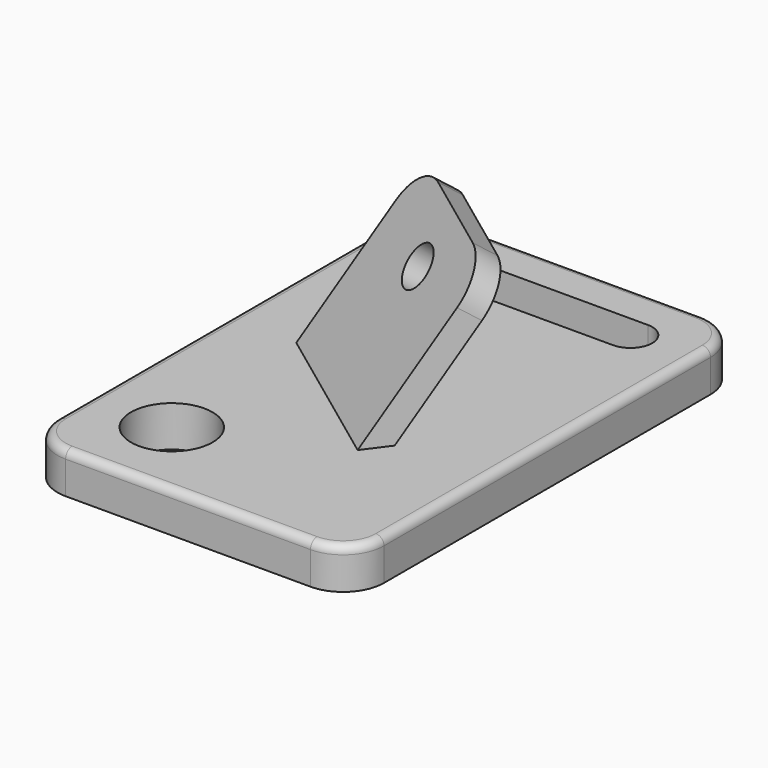
from build123d import *

# Parameters (mm, degrees)
F2_R     = 3.175
F3_DEPTH = 1.905
F0_R     = 6.35
F4_DEPTH = 3.175
F5_R     = 1.27


with BuildPart() as f3:
    # F2 (on face) → F3 (new body, symmetric)
    with BuildSketch(Plane(origin=(-3.023974, -4.077422, 3.55453), x_dir=(0.872864, -0.36782, 0.32065), z_dir=(-0.487963, -0.657953, 0.573576))):
        with BuildLine():
            Line((-3.872431, 23.373911), (-13.813271, 0))
            Line((-13.813271, 0), (13.066727, -11.431966))
            Line((13.066727, -11.431966), (23.007567, 11.941945))
            ThreePointArc((23.007567, 11.941945), (23.05336, 16.801809), (19.649299, 20.270633))
            Line((19.649299, 20.270633), (4.456257, 26.732178))
            ThreePointArc((4.456257, 26.732178), (-0.403607, 26.777972), (-3.872431, 23.373911))
        make_face()
        with Locations((8.822005, 15.904885)):
            Circle(F2_R, mode=Mode.SUBTRACT)
    extrude(amount=F3_DEPTH, both=True)

    # F0 (on Top) → F4 (join, symmetric)
    with BuildSketch(Plane.XY):
        with BuildLine():
            Line((19.05, 38.1), (0, 38.1))
            Line((0, 38.1), (-19.05, 38.1))
            ThreePointArc((-19.05, 38.1), (-23.540128, 36.240128), (-25.4, 31.75))
            Line((-25.4, 31.75), (-25.4, 0))
            Line((-25.4, 0), (-25.4, -31.75))
            ThreePointArc((-25.4, -31.75), (-23.540128, -36.240128), (-19.05, -38.1))
            Line((-19.05, -38.1), (0, -38.1))
            Line((0, -38.1), (19.05, -38.1))
            ThreePointArc((19.05, -38.1), (23.540128, -36.240128), (25.4, -31.75))
            Line((25.4, -31.75), (25.4, 0))
            Line((25.4, 0), (25.4, 31.75))
            ThreePointArc((25.4, 31.75), (23.540128, 36.240128), (19.05, 38.1))
        make_face()
        with Locations((-12.7, -25.4)):
            Circle(F0_R, mode=Mode.SUBTRACT)
        with BuildLine():
            Line((-15.652927, 31.75), (0, 31.75))
            Line((0, 31.75), (15.652927, 31.75))
            ThreePointArc((15.652927, 31.75), (19.05, 28.352927), (15.652927, 24.955855))
            Line((15.652927, 24.955855), (0, 24.955855))
            Line((0, 24.955855), (-15.652927, 24.955855))
            ThreePointArc((-15.652927, 24.955855), (-19.05, 28.352927), (-15.652927, 31.75))
        make_face(mode=Mode.SUBTRACT)
    extrude(amount=F4_DEPTH, both=True)

    # F5
    f5_edges = [f3.edges().sort_by_distance(p)[0] for p in [
        (0, 38.1, 3.175),
        (-23.540128, 36.240128, 3.175),
        (-25.4, 0, 3.175),
        (-23.540128, -36.240128, 3.175),
        (0, -38.1, 3.175),
        (23.540128, -36.240128, 3.175),
        (25.4, 0, 3.175),
        (23.540128, 36.240128, 3.175),
    ]]
    fillet(f5_edges, radius=F5_R)


solid = f3.part
